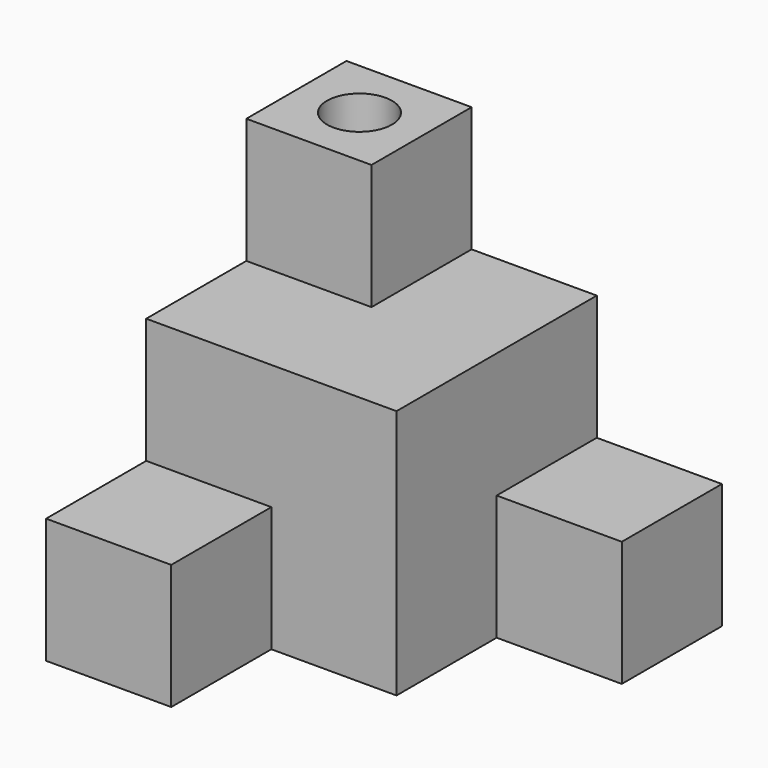
from build123d import *

# Parameters (mm, degrees)
F0_W     = 10
F0_H     = 10
F1_DEPTH = 10
F2_W     = 5
F2_H     = 5
F3_DEPTH = 5
F4_W     = 5
F4_H     = 5
F5_DEPTH = 5
F6_W     = 5
F6_H     = 5
F7_DEPTH = 5
F8_R     = 1.295802
F9_DEPTH = 25


with BuildPart() as f1:
    # F0 (on Top) → F1 (new body)
    with BuildSketch(Plane.XY):
        with Locations((-5, 5)):
            Rectangle(F0_W, F0_H)
    extrude(amount=F1_DEPTH)

    # F2 (on face) → F3 (join)
    with BuildSketch(Plane.YZ):
        with Locations((7.5, 2.5)):
            Rectangle(F2_W, F2_H)
    extrude(amount=F3_DEPTH)

    # F4 (on face) → F5 (join)
    with BuildSketch(Plane.XZ):
        with Locations((-7.5, 2.5)):
            Rectangle(F4_W, F4_H)
    extrude(amount=F5_DEPTH)

    # F6 (on face) → F7 (join)
    with BuildSketch(Plane.XY.offset(10)):
        with Locations((-7.5, 7.5)):
            Rectangle(F6_W, F6_H)
    extrude(amount=F7_DEPTH)

    # F8 (on face) → F9 (cut)
    with BuildSketch(Plane.XY.offset(15)):
        with Locations((-7.5, 7.526434)):
            Circle(F8_R)
    extrude(amount=-F9_DEPTH, mode=Mode.SUBTRACT)


solid = f1.part
